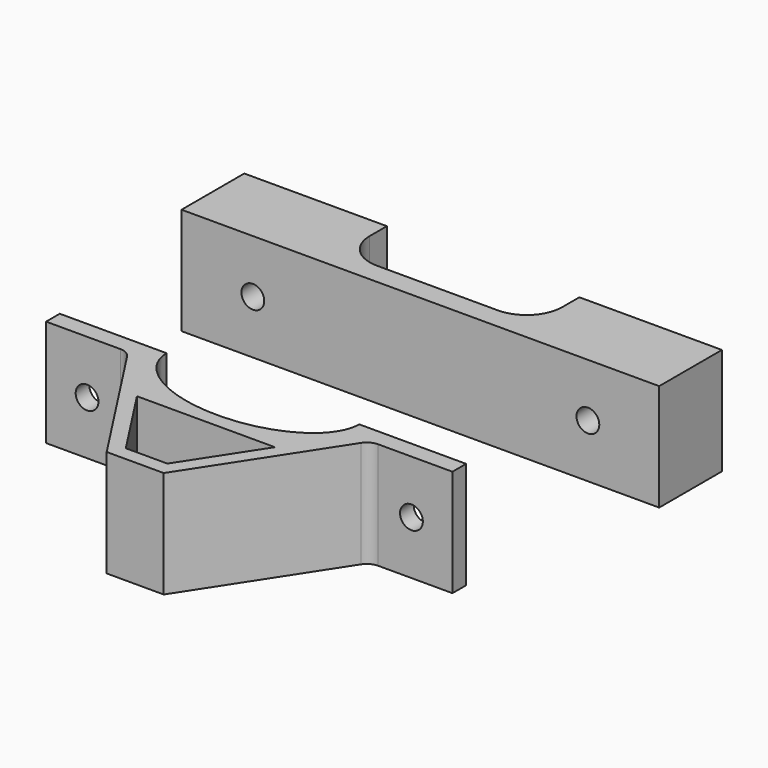
from build123d import *

# Parameters (mm, degrees)
PAD_DEPTH       = 7.5
SKETCH001_R     = 1.6
POCKET_DEPTH    = 5
PAD001_DEPTH    = 7.5
SKETCH003_R     = 1.6
POCKET001_DEPTH = 2.401
FILLET_R        = 2


with BuildPart() as body:
    # Sketch → Pad (new body, symmetric)
    with BuildSketch(Plane.XY):
        with BuildLine():
            Line((-33.5, 0), (33.5, 0))
            Line((33.5, 0), (33.5, 11))
            Line((33.5, 11), (13.5, 11))
            Line((13.5, 8), (13.5, 11))
            ThreePointArc((8.5, 3), (12.035534, 4.464466), (13.5, 8))
            Line((-8.5, 3), (8.5, 3))
            ThreePointArc((-13.5, 8), (-12.035534, 4.464466), (-8.5, 3))
            Line((-13.5, 11), (-13.5, 8))
            Line((-33.5, 11), (-13.5, 11))
            Line((-33.5, 0), (-33.5, 11))
        make_face()
    extrude(amount=PAD_DEPTH, both=True)

    # Sketch001 → Pocket (cut)
    with BuildSketch(Plane.XZ):
        with Locations((-23.5, 0)):
            Circle(SKETCH001_R)
        with Locations((23.5, 0)):
            Circle(SKETCH001_R)
    extrude(amount=-POCKET_DEPTH, mode=Mode.SUBTRACT)


with BuildPart() as body001:
    # Sketch002 → Pad001 (new body, symmetric)
    with BuildSketch(Plane.XY):
        with BuildLine():
            Line((-28.5, 0), (-17, 0))
            Line((-17, 0), (-4, -20))
            Line((-4, -20), (4, -20))
            Line((4, -20), (17, 0))
            Line((17, 0), (28.5, 0))
            Line((28.5, 0), (28.5, 2.4))
            Line((28.5, 2.4), (13.5, 2.4))
            add(Edge.make_bspline(
                [(-13.5, 2.4), (-13.5, -5.6), (0, -5.6), (13.5, -5.6), (13.5, 2.4)],
                knots=[0, 0, 0, 1.570796, 1.570796, 3.141593, 3.141593, 3.141593], degree=2, weights=[1, 0.707107, 1, 0.707107, 1]))
            Line((-13.5, 2.4), (-28.5, 2.4))
            Line((-28.5, 2.4), (-28.5, 0))
        make_face()
        Polygon((-9.674628, -7.6), (-2.914628, -18), (2.914628, -18), (9.674628, -7.6), align=None, mode=Mode.SUBTRACT)
    extrude(amount=PAD001_DEPTH, both=True)

    # Sketch003 → Pocket001 (cut, through all)
    with BuildSketch(Plane.XZ):
        with Locations((-22.75, 0)):
            Circle(SKETCH003_R)
        with Locations((22.75, 0)):
            Circle(SKETCH003_R)
    extrude(amount=-POCKET001_DEPTH, mode=Mode.SUBTRACT)

    # Fillet
    fillet_edges = [body001.edges().sort_by_distance(p)[0] for p in [
        (-17, 0, 0),
        (17, 0, 0),
    ]]
    fillet(fillet_edges, radius=FILLET_R)


with BuildPart() as body001_1:
    # Body001 placement: moved
    add(body001.part.moved(Location((0, -30, 0))))


solid = Compound([body.part, body001_1.part])
